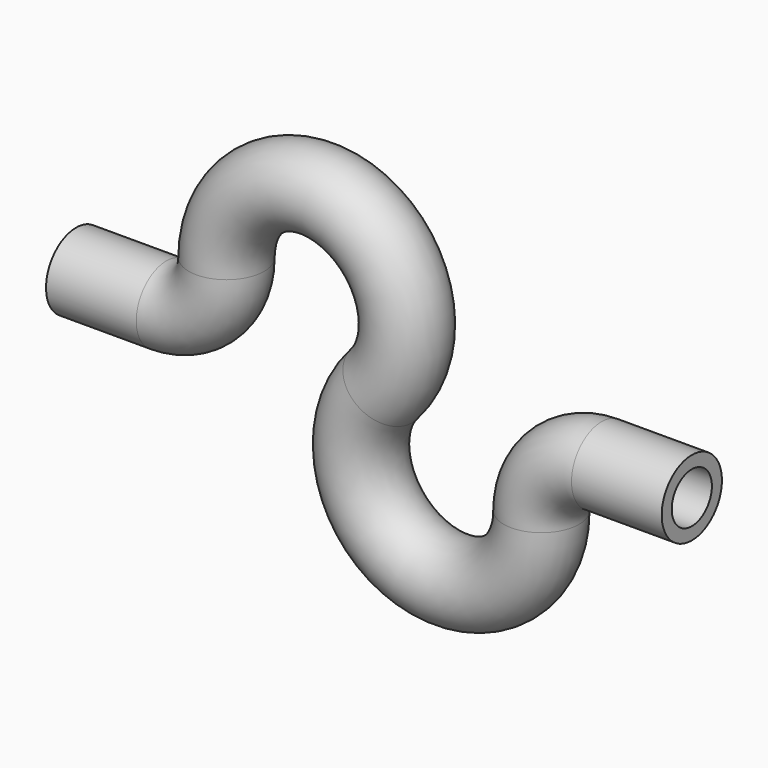
from build123d import *

# Parameters (mm, degrees)
F2_R   = 1.2515
F2_R_2 = 0.835


with BuildPart() as f3:
    # F3: sweep along a path in F0
    with BuildLine(Plane.XZ) as f3_path:
        Line((-10.236068, 0), (-7.236068, 0))
        ThreePointArc((-7.236068, 0), (-5.821854, 0.585786), (-5.236068, 2))
        ThreePointArc((-5.236068, 2), (-1.165602, 4.802517), (0, 0))
        ThreePointArc((0, 0), (1.165602, -4.802517), (5.236068, -2))
        ThreePointArc((5.236068, -2), (5.821854, -0.585786), (7.236068, 0))
        Line((7.236068, 0), (10.236068, 0))
    # F2 (on plane+point) → F3 (sweep)
    with BuildSketch(Plane.YZ.offset(-10.236068)):
        Circle(F2_R)
        Circle(F2_R_2, mode=Mode.SUBTRACT)
    sweep(path=f3_path.line)


solid = f3.part
